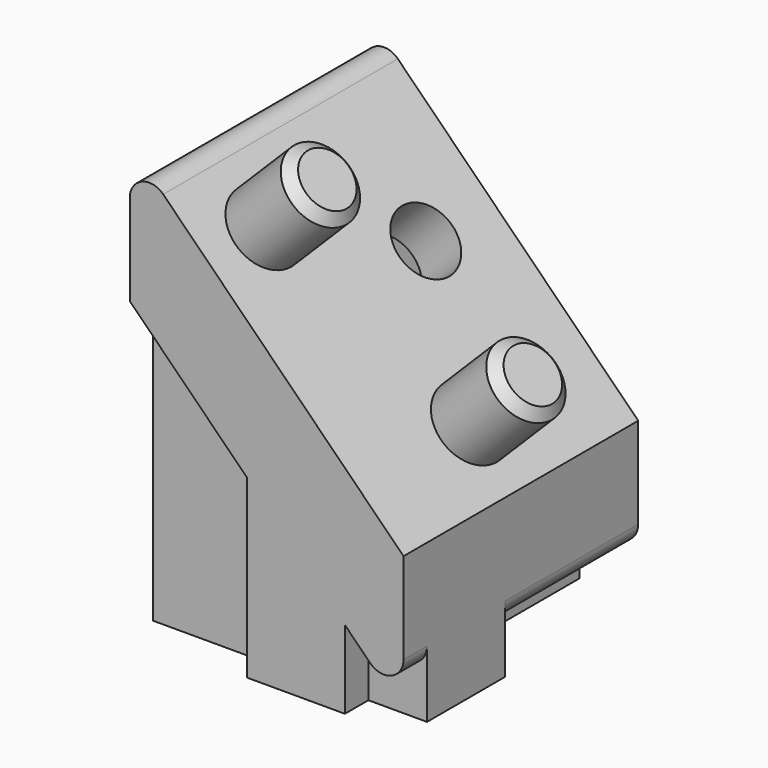
from build123d import *

# Parameters (mm, degrees)
PAD001_START         = 10
PAD001_DEPTH         = 15
POCKET004_DEPTH      = 7.501
POCKET004_DEPTH_BACK = 7.501
PAD002_DEPTH         = 15
POCKET005_DEPTH      = 2.15
SKETCH011_R          = 1.7
HOLE001_DEPTH        = 12.7504949366
SKETCH012_R          = 1.9
PAD003_DEPTH         = 4.5
CHAMFER_SIZE         = 0.5
FILLET001_R          = 1


with BuildPart() as part:
    # Sketch007 → Pad001 (new body)
    with BuildSketch(Plane.XY.offset(PAD001_START)):
        Polygon((-7, -6), (-1, -6), (-1, -7.5), (4, -7.5), (4, -6), (7, -6), (7, -1), (4, -1), (4, 7.5), (-1, 7.5), (-1, -1), (-7, -1), align=None)
    extrude(amount=PAD001_DEPTH)

    # Sketch008 → Pocket004 (cut, two sides)
    with BuildSketch(Plane.XZ) as pocket004_sk:
        Polygon((-7, 25), (7, 11), (7, 25), align=None)
    extrude(amount=-POCKET004_DEPTH, mode=Mode.SUBTRACT)
    extrude(pocket004_sk.sketch, amount=POCKET004_DEPTH_BACK, mode=Mode.SUBTRACT)

    # Sketch009 (on Face8 of Pocket004) → Pad002 (join)
    with BuildSketch(Plane.XZ.offset(7.5)):
        Polygon((-7, 25), (7, 11), (7, 18.0710678119), (-7, 32.0710678119), align=None)
    extrude(amount=-PAD002_DEPTH)

    # Sketch010 (on Face12 of Pad002) → Pocket005 (cut)
    with BuildSketch(Plane(origin=(9, 0, 9), x_dir=(0.7071067812, 0, -0.7071067812), z_dir=(-0.7071067812, 0, -0.7071067812))):
        Polygon((-21.5619467058, -2.3333103769), (-20.6952570827, -5.5678400847), (-17.4607273749, -6.4345297078), (-15.0928872902, -4.0666896231), (-15.9595769133, -0.8321599153), (-19.1941066211, 0.0345297078), align=None)
    extrude(amount=-POCKET005_DEPTH, mode=Mode.SUBTRACT)

    # Sketch011 (on Face29 of Pocket005) → Hole001 (cut, through all)
    with BuildSketch(Plane(origin=(10.5202795796, 0, 10.5202795796), x_dir=(0, -1, 0), z_dir=(-0.7071067812, 0, -0.7071067812))):
        with Locations((-3.2, 18.327416998)):
            Circle(SKETCH011_R)
    extrude(amount=-HOLE001_DEPTH, mode=Mode.SUBTRACT)

    # Sketch012 (on Face9 of Hole001) → Pad003 (join)
    with BuildSketch(Plane(origin=(12.5355339059, 0, 12.5355339059), x_dir=(0.7071067812, 0, -0.7071067812), z_dir=(0.7071067812, 0, 0.7071067812))):
        with Locations((-22.027416998, -3.8)):
            Circle(SKETCH012_R)
        with Locations((-11.127416998, -0.3)):
            Circle(SKETCH012_R)
    extrude(amount=PAD003_DEPTH)

    # Chamfer
    chamfer_edges = [part.edges().sort_by_distance(p)[0] for p in [
        (-1.201724, -3.8, 32.636753),
        (6.50574, -0.3, 24.929289),
    ]]
    chamfer(chamfer_edges, length=CHAMFER_SIZE)

    # Fillet001
    fillet001_edges = [part.edges().sort_by_distance(p)[0] for p in [
        (-7, 0, 32.071068),
        (7, 3.25, 11),
        (7, -6.75, 11),
    ]]
    fillet(fillet001_edges, radius=FILLET001_R)


with BuildPart() as part_1:
    # Body001 placement: moved
    add(part.part.moved(Location((0, 0, -3))))


solid = part_1.part
